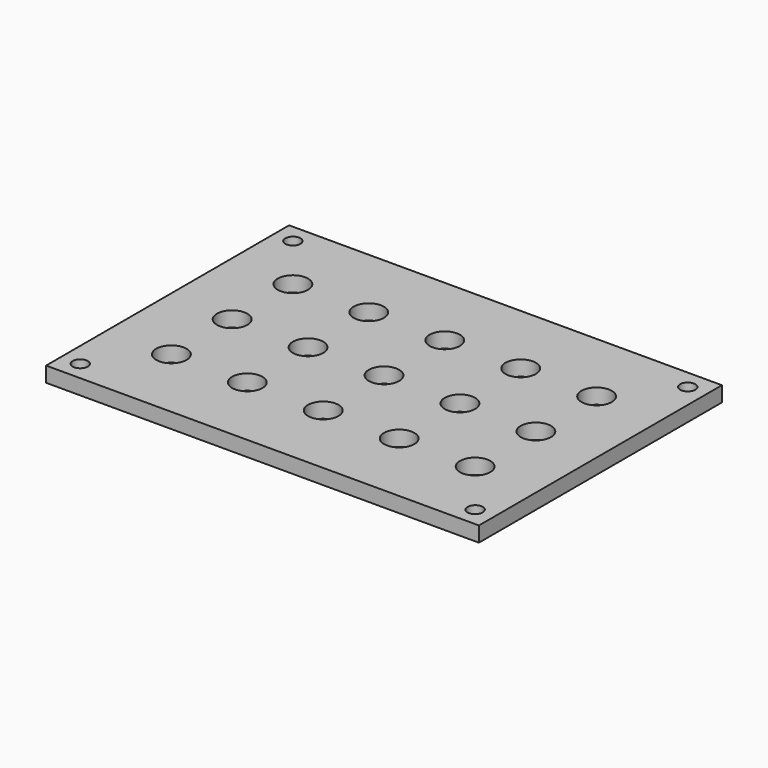
from build123d import *

# Parameters (mm, degrees)
CYLINDER002_R     = 2
CYLINDER002_DEPTH = 10
ARRAY002_X_COUNT  = 5
ARRAY002_X_PITCH  = 10
ARRAY002_Y_COUNT  = 3
ARRAY002_Y_PITCH  = 10
CYLINDER001_R     = 1
CYLINDER001_DEPTH = 10
ARRAY001_X_COUNT  = 2
ARRAY001_X_PITCH  = 52
ARRAY001_Y_COUNT  = 2
ARRAY001_Y_PITCH  = 35
BOX_W             = 57
BOX_H             = 40
BOX_DEPTH         = 2


with BuildPart() as array002:
    # Cylinder002 → Cylinder002 (new body)
    with BuildSketch(Plane(origin=(-30, -10, 17), x_dir=(1, 0, 0), z_dir=(0, 0, 1))):
        Circle(CYLINDER002_R)
    extrude(amount=CYLINDER002_DEPTH)

    # Array002 X: Array002 ×5


with BuildPart() as array002_1:
    add(array002.part)
    with Locations(*[(i * ARRAY002_X_PITCH, 0, 0) for i in range(1, ARRAY002_X_COUNT)]):
        add(array002.part)

    # Array002 Y: Array002 ×3


with BuildPart() as array002_2:
    add(array002_1.part)
    with Locations(*[(0, i * ARRAY002_Y_PITCH, 0) for i in range(1, ARRAY002_Y_COUNT)]):
        add(array002_1.part)


with BuildPart() as array001:
    # Cylinder001 → Cylinder001 (new body)
    with BuildSketch(Plane(origin=(-36, -17.5, 18), x_dir=(1, 0, 0), z_dir=(0, 0, 1))):
        Circle(CYLINDER001_R)
    extrude(amount=CYLINDER001_DEPTH)

    # Array001 X: Array001 ×2


with BuildPart() as array001_1:
    add(array001.part)
    with Locations(*[(i * ARRAY001_X_PITCH, 0, 0) for i in range(1, ARRAY001_X_COUNT)]):
        add(array001.part)

    # Array001 Y: Array001 ×2


with BuildPart() as array001_2:
    add(array001_1.part)
    with Locations(*[(0, i * ARRAY001_Y_PITCH, 0) for i in range(1, ARRAY001_Y_COUNT)]):
        add(array001_1.part)


with BuildPart() as top_cut:
    # Box → Box (new body)
    with BuildSketch(Plane(origin=(-38.5, -20, 20), x_dir=(1, 0, 0), z_dir=(0, 0, 1))):
        with Locations((28.5, 20)):
            Rectangle(BOX_W, BOX_H)
    extrude(amount=BOX_DEPTH)

    # Cut003: cut Array001
    add(array001_2.part, mode=Mode.SUBTRACT)

    # Cut004: cut Array002
    add(array002_2.part, mode=Mode.SUBTRACT)


solid = top_cut.part
